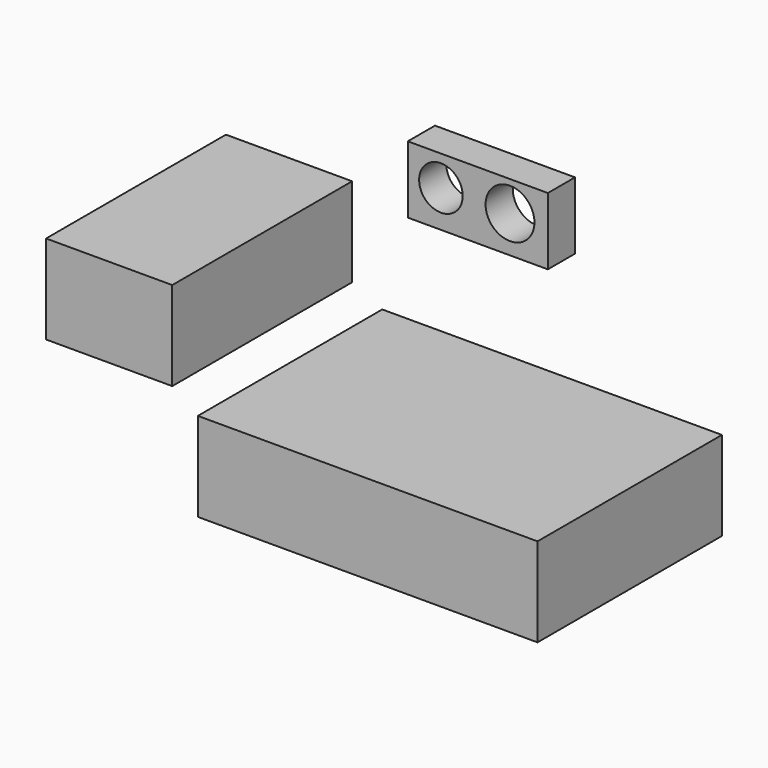
from build123d import *

# Parameters (mm, degrees)
F0_W     = 198.12
F0_H     = 139.7
F1_DEPTH = 353.06
F2_W     = 533.4
F2_H     = 139.7
F3_DEPTH = 361.95
F5_W     = 219.952613
F5_H     = 105.517812
F5_R     = 34.214091
F5_R_2   = 38.353472
F6_DEPTH = 53.34


with BuildPart() as f1:
    # F0 (on Front) → F1 (new body)
    with BuildSketch(Plane.XZ):
        with Locations((22.208289, 29.995395)):
            Rectangle(F0_W, F0_H)
    extrude(amount=F1_DEPTH)


with BuildPart() as f3:
    # F2 (on Front) → F3 (new body)
    with BuildSketch(Plane.XZ):
        with Locations((354.030728, -131.806599)):
            Rectangle(F2_W, F2_H)
    extrude(amount=F3_DEPTH)


with BuildPart() as f3_1:
    # F4: moved
    add(f3.part.moved(Location((81.28, 0, 0))))


with BuildPart() as f6:
    # F5 (on Front) → F6 (new body)
    with BuildSketch(Plane.XZ):
        with Locations((361.362889, 166.328665)):
            Rectangle(F5_W, F5_H)
        with Locations((303.402424, 171.530247)):
            Circle(F5_R, mode=Mode.SUBTRACT)
        with Locations((411.892533, 171.530247)):
            Circle(F5_R_2, mode=Mode.SUBTRACT)
    extrude(amount=F6_DEPTH)


solid = Compound([f1.part, f3_1.part, f6.part])
